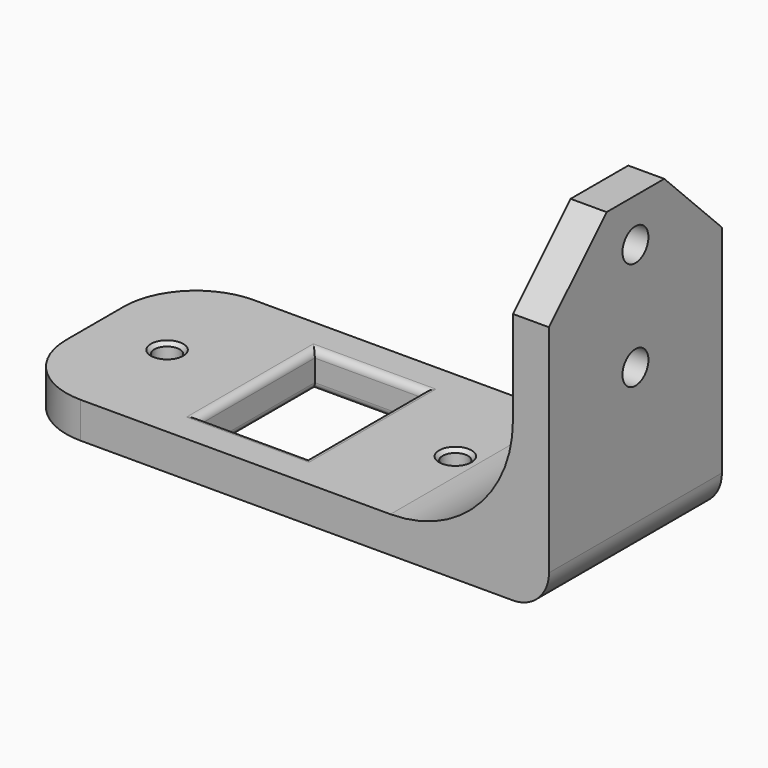
from build123d import *

# Parameters (mm, degrees)
SKETCH_W        = 75
SKETCH_H        = 30
SKETCH_R        = 1.75
SKETCH_W_2      = 15
SKETCH_H_2      = 20
PAD_DEPTH       = 5
FILLET_R        = 10
FILLET001_R     = 1
SKETCH001_W     = 5
SKETCH001_H     = 30
PAD001_DEPTH    = 40
FILLET002_R     = 5
FILLET003_R     = 17
SKETCH002_R     = 2.25
POCKET_DEPTH    = 75.001
CHAMFER_SIZE    = 10
CHAMFER001_SIZE = 0.5


with BuildPart() as part:
    # Sketch → Pad (new body)
    with BuildSketch(Plane.XY):
        with Locations((27.5, 0)):
            Rectangle(SKETCH_W, SKETCH_H)
        Circle(SKETCH_R, mode=Mode.SUBTRACT)
        with Locations((40, 0)):
            Circle(SKETCH_R, mode=Mode.SUBTRACT)
        with Locations((20, 0)):
            Rectangle(SKETCH_W_2, SKETCH_H_2, mode=Mode.SUBTRACT)
    extrude(amount=PAD_DEPTH)

    # Fillet
    fillet_edges = [part.edges().sort_by_distance(p)[0] for p in [
        (-10, 15, 2.5),
        (-10, -15, 2.5),
    ]]
    fillet(fillet_edges, radius=FILLET_R)

    # Fillet001
    fillet001_edges = [part.edges().sort_by_distance(p)[0] for p in [
        (12.5, 0, 5),
        (12.5, 0, 0),
        (20, 10, 0),
        (20, 10, 5),
        (27.5, 0, 5),
        (20, -10, 5),
        (27.5, 0, 0),
        (20, -10, 0),
    ]]
    fillet(fillet001_edges, radius=FILLET001_R)

    # Sketch001 (on Face18 of Fillet001) → Pad001 (join)
    with BuildSketch(Plane.XY.offset(5)):
        with Locations((62.5, 0)):
            Rectangle(SKETCH001_W, SKETCH001_H)
    extrude(amount=PAD001_DEPTH)

    # Fillet002
    fillet002_edges = [part.edges().sort_by_distance(p)[0] for p in [
        (65, 0, 0),
    ]]
    fillet(fillet002_edges, radius=FILLET002_R)

    # Fillet003
    fillet003_edges = [part.edges().sort_by_distance(p)[0] for p in [
        (60, 0, 5),
    ]]
    fillet(fillet003_edges, radius=FILLET003_R)

    # Sketch002 (on Face9 of Fillet003) → Pocket (cut, through all)
    with BuildSketch(Plane.YZ.offset(65)):
        with Locations((0, 39)):
            Circle(SKETCH002_R)
        with Locations((0, 24)):
            Circle(SKETCH002_R)
    extrude(amount=-POCKET_DEPTH, mode=Mode.SUBTRACT)

    # Chamfer
    chamfer_edges = [part.edges().sort_by_distance(p)[0] for p in [
        (62.5, -15, 45),
        (62.5, 15, 45),
    ]]
    chamfer(chamfer_edges, length=CHAMFER_SIZE)

    # Chamfer001
    chamfer001_edges = [part.edges().sort_by_distance(p)[0] for p in [
        (60, -2.25, 39),
        (60, -1.171165, 25.921165),
        (60, 1.921165, 22.828835),
        (38.25, 0, 5),
        (-1.75, 0, 5),
    ]]
    chamfer(chamfer001_edges, length=CHAMFER001_SIZE)


solid = part.part
